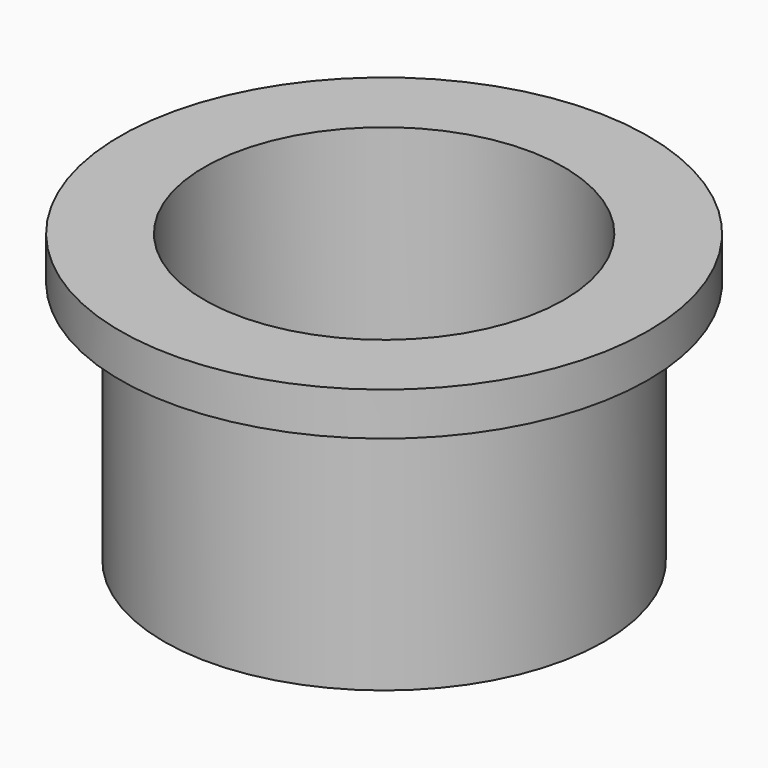
from build123d import *

# Parameters (mm, degrees)
F0_R     = 9.3218
F1_DEPTH = 1.524
F2_R     = 7.7724
F3_DEPTH = 8.636
F4_R     = 6.35
F5_DEPTH = 10.161


with BuildPart() as f1:
    # F0 (on Top) → F1 (new body)
    with BuildSketch(Plane.XY):
        Circle(F0_R)
    extrude(amount=F1_DEPTH)

    # F2 (on face) → F3 (join)
    with BuildSketch(Plane(origin=(0, 0, 0), x_dir=(1, 0, 0), z_dir=(0, 0, -1))):
        Circle(F2_R)
    extrude(amount=F3_DEPTH)

    # F4 (on face) → F5 (cut, through all)
    with BuildSketch(Plane.XY.offset(1.524)):
        Circle(F4_R)
    extrude(amount=-F5_DEPTH, mode=Mode.SUBTRACT)


solid = f1.part
